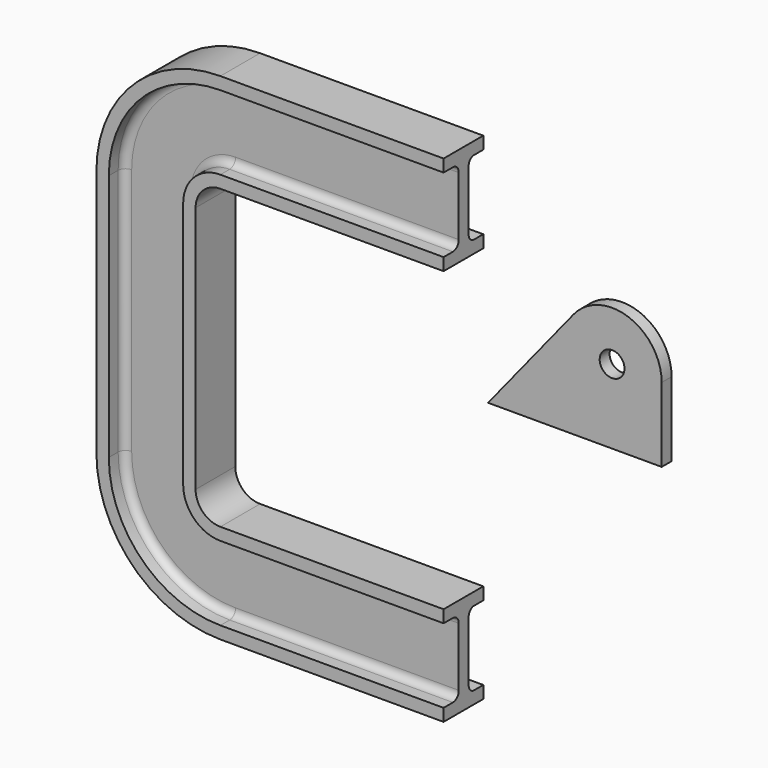
from build123d import *

# Parameters (mm, degrees)
F3_R     = 5
F4_DEPTH = 5


with BuildPart() as f2:
    # F2: sweep along a path in F0
    with BuildLine(Plane.XZ) as f2_path:
        Line((0, 60), (-90, 60))
        ThreePointArc((-90, 60), (-97.071068, 57.071068), (-100, 50))
        Line((-100, 50), (-100, 0))
        Line((-100, 0), (-100, -50))
        ThreePointArc((-100, -50), (-97.071068, -57.071068), (-90, -60))
        Line((-90, -60), (0, -60))
    # F1 (on Right) → F2 (sweep)
    with BuildSketch(Plane.YZ):
        with BuildLine():
            Line((-20, 60), (0, 60))
            Line((0, 60), (0, 65))
            Line((0, 65), (-5.204993, 65))
            ThreePointArc((-5.204993, 65), (-6.827663, 66.161783), (-7.362441, 68.084491))
            Line((-7.362441, 68.084491), (-7.362441, 91.915509))
            ThreePointArc((-7.362441, 91.915509), (-6.827663, 93.838217), (-5.204993, 95))
            Line((-5.204993, 95), (0, 95))
            Line((0, 95), (0, 100))
            Line((0, 100), (-20, 100))
            Line((-20, 100), (-20, 95))
            Line((-20, 95), (-15.301882, 95))
            ThreePointArc((-15.301882, 95), (-13.178438, 94.059642), (-12.362441, 91.885375))
            Line((-12.362441, 91.885375), (-12.362441, 68.114625))
            ThreePointArc((-12.362441, 68.114625), (-13.178438, 65.940358), (-15.301882, 65))
            Line((-15.301882, 65), (-20, 65))
            Line((-20, 65), (-20, 60))
        make_face()
    sweep(path=f2_path.line)


with BuildPart() as f4:
    # F3 (on Front) → F4 (new body)
    with BuildSketch(Plane.XZ):
        with BuildLine():
            Line((40.394755, 51.699712), (5.9428, 9.119637))
            Line((5.9428, 9.119637), (75.9428, 9.119637))
            Line((75.9428, 9.119637), (75.9428, 39.119637))
            ThreePointArc((75.9428, 39.119637), (62.615097, 57.973826), (40.394755, 51.699712))
        make_face()
        with Locations((55.9428, 39.119637)):
            Circle(F3_R, mode=Mode.SUBTRACT)
    extrude(amount=F4_DEPTH)


solid = Compound([f2.part, f4.part])
